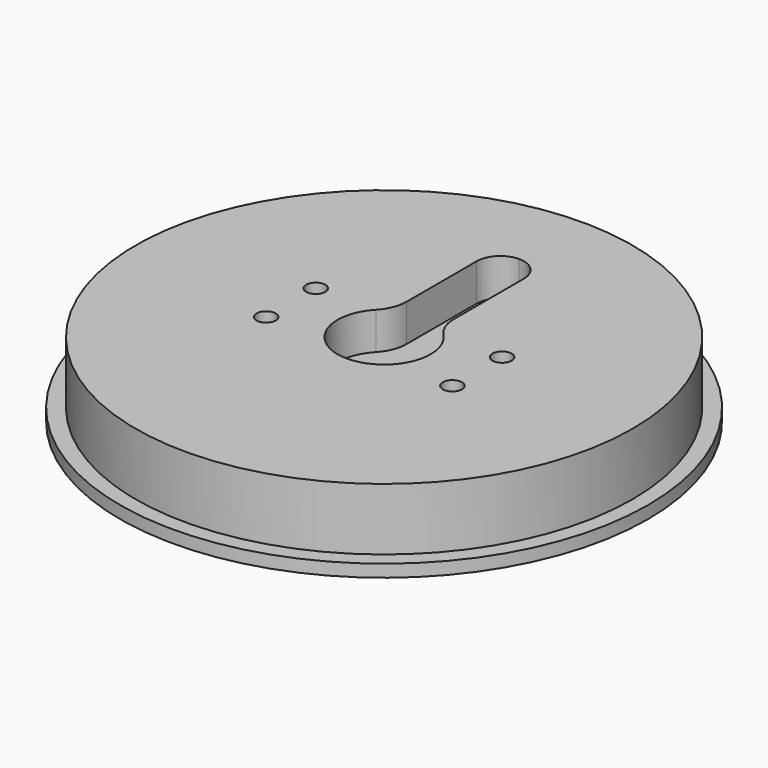
from build123d import *

# Parameters (mm, degrees)
SKETCH_R        = 42.5
PAD_DEPTH       = 2
SKETCH001_R     = 40
PAD001_DEPTH    = 10
SKETCH002_R     = 7.5
POCKET_DEPTH    = 6
SKETCH003_W     = 7.6
SKETCH003_H     = 27.2
POCKET001_DEPTH = 6
FILLET_R        = 6
FILLET001_R     = 3.7999
SKETCH004_R     = 1.55
POCKET002_DEPTH = 6
SKETCH005_R     = 3
POCKET003_DEPTH = 3
SKETCH006_R     = 1.55
POCKET004_DEPTH = 12


with BuildPart() as part:
    # Sketch → Pad (new body)
    with BuildSketch(Plane.XY):
        Circle(SKETCH_R)
    extrude(amount=PAD_DEPTH)

    # Sketch001 (on Face3 of Pad) → Pad001 (join)
    with BuildSketch(Plane.XY.offset(2)):
        Circle(SKETCH001_R)
    extrude(amount=PAD001_DEPTH)

    # Sketch002 (on Face5 of Pad001) → Pocket (cut)
    with BuildSketch(Plane.XY.offset(12)):
        Circle(SKETCH002_R)
    extrude(amount=-POCKET_DEPTH, mode=Mode.SUBTRACT)

    # Sketch003 (on Face5 of Pocket) → Pocket001 (cut)
    with BuildSketch(Plane.XY.offset(12)):
        with Locations((0, 13.6)):
            Rectangle(SKETCH003_W, SKETCH003_H)
    extrude(amount=-POCKET001_DEPTH, mode=Mode.SUBTRACT)

    # Fillet
    fillet_edges = [part.edges().sort_by_distance(p)[0] for p in [
        (-3.8, 6.466065, 9),
        (3.8, 6.466065, 9),
    ]]
    fillet(fillet_edges, radius=FILLET_R)

    # Fillet001
    fillet001_edges = [part.edges().sort_by_distance(p)[0] for p in [
        (3.8, 27.2, 9),
        (-3.8, 27.2, 9),
    ]]
    fillet(fillet001_edges, radius=FILLET001_R)

    # Sketch004 (on Face12 of Fillet001) → Pocket002 (cut)
    with BuildSketch(Plane.XY.offset(6)):
        with Locations((0, 23.5)):
            Circle(SKETCH004_R)
    extrude(amount=-POCKET002_DEPTH, mode=Mode.SUBTRACT)

    # Sketch005 (on Face13 of Pocket002) → Pocket003 (cut)
    with BuildSketch(Plane.XY.offset(6)):
        Circle(SKETCH005_R)
    extrude(amount=-POCKET003_DEPTH, mode=Mode.SUBTRACT)

    # Sketch006 (on Face1 of Pocket003) → Pocket004 (cut)
    with BuildSketch(Plane.XY.offset(12)):
        with Locations((-15, 5)):
            Circle(SKETCH006_R)
        with Locations((15, 5)):
            Circle(SKETCH006_R)
        with Locations((15, -5)):
            Circle(SKETCH006_R)
        with Locations((-15, -5)):
            Circle(SKETCH006_R)
    extrude(amount=-POCKET004_DEPTH, mode=Mode.SUBTRACT)


solid = part.part
